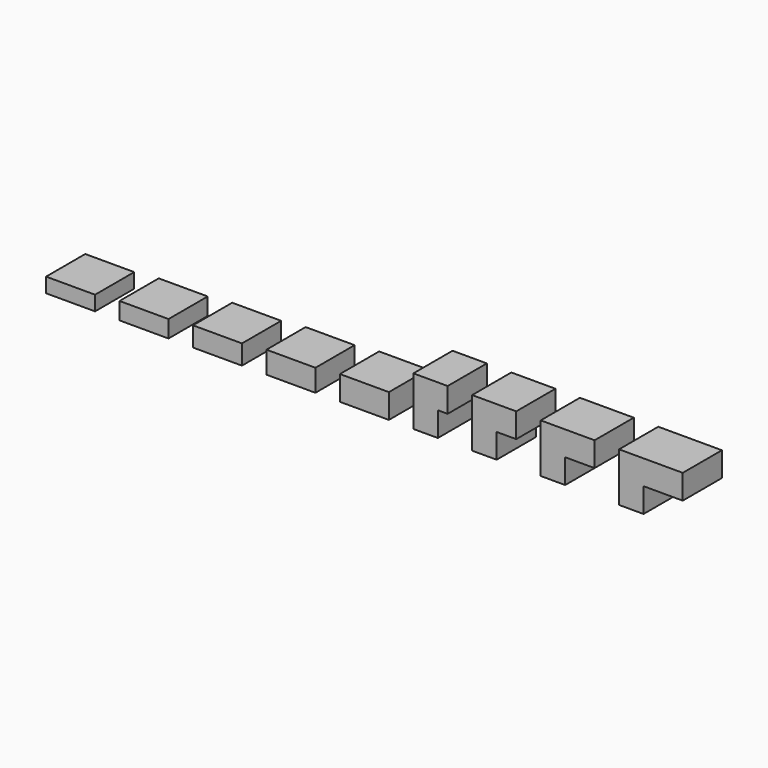
from build123d import *

# Parameters (mm, degrees)
F1_DEPTH = 10
F2_W     = 10
F2_H     = 3
F2_H_2   = 3.5
F2_H_3   = 4
F2_H_4   = 4.5
F2_H_5   = 5
F3_DEPTH = 10


with BuildPart() as f1:
    # F0 (on Front) → F1 (new body)
    with BuildSketch(Plane.XZ):
        Polygon((0, 10), (0, 0), (5, 0), (5, 5), (7, 5), (7, 10), align=None)
        Polygon((12, 10), (12, 0), (17, 0), (17, 5), (21, 5), (21, 10), align=None)
        Polygon((26, 10), (26, 0), (31, 0), (31, 5), (37, 5), (37, 10), align=None)
        Polygon((42, 10), (42, 0), (47, 0), (47, 5), (55, 5), (55, 10), align=None)
    extrude(amount=F1_DEPTH)


with BuildPart() as f3:
    # F2 (on Front) → F3 (new body)
    with BuildSketch(Plane.XZ):
        with Locations((-70, 1.5)):
            Rectangle(F2_W, F2_H)
        with Locations((-55, 1.75)):
            Rectangle(F2_W, F2_H_2)
        with Locations((-40, 2)):
            Rectangle(F2_W, F2_H_3)
        with Locations((-25, 2.25)):
            Rectangle(F2_W, F2_H_4)
        with Locations((-10, 2.5)):
            Rectangle(F2_W, F2_H_5)
    extrude(amount=F3_DEPTH)


solid = Compound([f1.part, f3.part])
